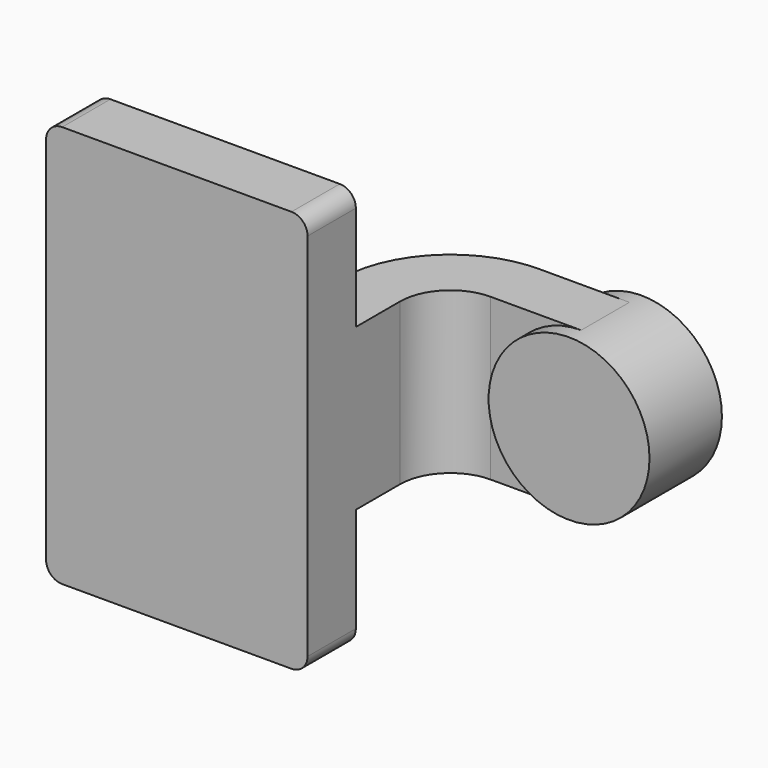
from build123d import *

# Parameters (mm, degrees)
F1_DEPTH  = 63.5
F0_W      = 25.4
F0_H      = 19.05
F2_DEPTH  = 25.4
F3_DEPTH  = 7.9375
F5_R      = 5.08
F7_D      = 6.858
F7_DEPTH  = 66.676
F8_D      = 6.858
F8_DEPTH  = 66.676
F9_D      = 6.858
F9_DEPTH  = 66.676
F10_D     = 6.858
F10_DEPTH = 66.676


with BuildPart() as f1:
    # F0 (on Top) → F1 (new body, symmetric)
    with BuildSketch(Plane.XY):
        Polygon((22.225, 9.525), (-41.275, 9.525), (-41.275, -9.525), (41.275, -9.525), (41.275, 9.525), align=None)
    extrude(amount=F1_DEPTH, both=True)

    # F0 (on Top) → F2 (join, symmetric)
    with BuildSketch(Plane.XY):
        with BuildLine():
            Line((22.225, 27.0002), (22.225, 9.525))
            Line((22.225, 9.525), (41.275, 9.525))
            Line((41.275, 9.525), (41.275, 27.0002))
            ThreePointArc((41.275, 27.0002), (45.9246798487, 38.2255201513), (57.15, 42.8752))
            Line((57.15, 42.8752), (60.325, 42.8752))
            Line((60.325, 42.8752), (60.325, 61.9252))
            Line((60.325, 61.9252), (57.15, 61.9252))
            add(Edge.make_bspline(
                [(53.8854342407, 61.7722898912), (54.9842067368, 61.8365871986), (56.0728453275, 61.8876096574), (57.15, 61.9252)],
                knots=[108.5245810491, 108.5245810491, 108.5245810491, 108.5245810491, 111.5045361635, 111.5045361635, 111.5045361635, 111.5045361635], degree=3))
            ThreePointArc((53.8854342407, 61.7722898912), (31.3258777096, 50.5133948686), (22.225, 27.0002))
        make_face()
        with Locations((73.025, 52.4002)):
            Rectangle(F0_W, F0_H)
    extrude(amount=F2_DEPTH, both=True)

    # F0 (on Top) → F3 (join, symmetric)
    with BuildSketch(Plane.XY):
        with BuildLine():
            add(Edge.make_bspline(
                [(-41.275, 9.525), (-39.5856284224, 39.4828766469), (13.870125209, 59.4306981306), (53.8854342407, 61.7722898912)],
                knots=[0, 0, 0, 0, 108.5245810491, 108.5245810491, 108.5245810491, 108.5245810491], degree=3))
            Line((-41.275, 9.525), (22.225, 9.525))
            Line((22.225, 9.525), (22.225, 27.0002))
            ThreePointArc((22.225, 27.0002), (31.3258777096, 50.5133948686), (53.8854342407, 61.7722898912))
        make_face()
    extrude(amount=F3_DEPTH, both=True)

    # F0 (on Top) → F4 (revolve)
    with BuildSketch(Plane.XY):
        Polygon((85.725, 66.675), (85.725, 61.9252), (85.725, 42.8752), (85.725, 38.1), (111.125, 38.1), (111.125, 66.675), align=None)
    revolve(axis=Axis((85.725, 52.3875, 0), (0, 1, 0)))

    # F5
    f5_edges = [f1.edges().sort_by_distance(p)[0] for p in [
        (41.275, 0, 63.5),
        (-41.275, 0, 63.5),
        (41.275, 0, -63.5),
        (-41.275, 0, -63.5),
    ]]
    fillet(f5_edges, radius=F5_R)

    # F7 (through all, one way)
    with BuildSketch(Plane.XZ):
        with Locations((-27.94, 50.8)):
            Circle(F7_D / 2)
    extrude(amount=-F7_DEPTH, mode=Mode.SUBTRACT)

    # F8 (through all, one way)
    with BuildSketch(Plane.XZ):
        with Locations((27.94, 50.8)):
            Circle(F8_D / 2)
    extrude(amount=-F8_DEPTH, mode=Mode.SUBTRACT)

    # F9 (through all, one way)
    with BuildSketch(Plane.XZ):
        with Locations((27.94, -50.8)):
            Circle(F9_D / 2)
    extrude(amount=-F9_DEPTH, mode=Mode.SUBTRACT)

    # F10 (through all, one way)
    with BuildSketch(Plane.XZ):
        with Locations((-27.94, -50.8)):
            Circle(F10_D / 2)
    extrude(amount=-F10_DEPTH, mode=Mode.SUBTRACT)


solid = f1.part
